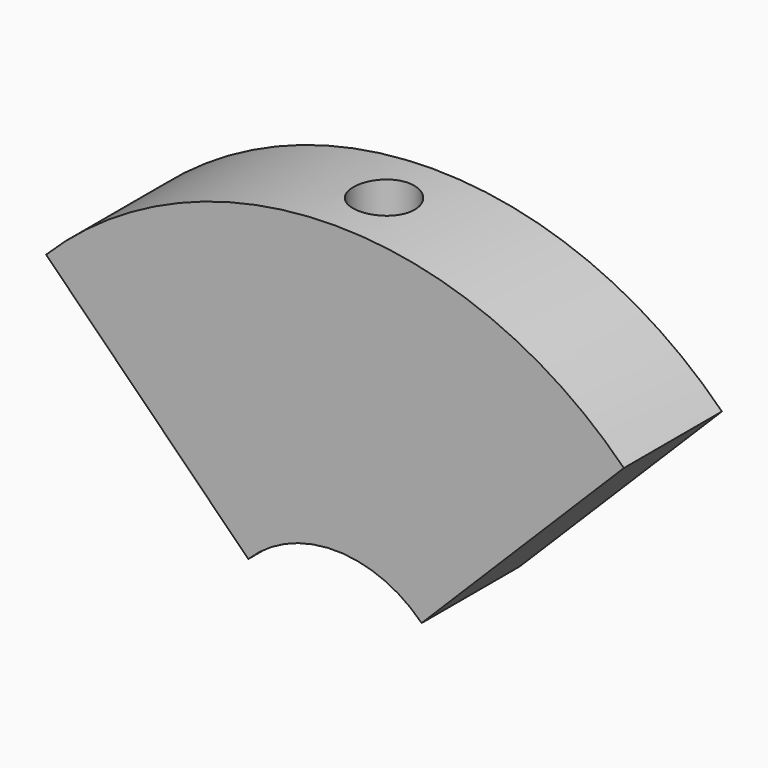
from build123d import *

# Parameters (mm, degrees)
F1_DEPTH = 15
F2_R     = 7.5
F3_DEPTH = 200.658232
F4_R     = 10
F5_DEPTH = 70


with BuildPart() as f1:
    # F0 (on Front) → F1 (new body, symmetric)
    with BuildSketch(Plane.XZ):
        with BuildLine():
            ThreePointArc((-21.213203, 21.213203), (0, 30), (21.213203, 21.213203))
            Line((21.213203, 21.213203), (70.710678, 70.710678))
            ThreePointArc((70.710678, 70.710678), (0, 100), (-70.710678, 70.710678))
            Line((-70.710678, 70.710678), (-21.213203, 21.213203))
        make_face()
    extrude(amount=F1_DEPTH, both=True)

    # F2 (on Top) → F3 (cut)
    with BuildSketch(Plane.XY):
        Circle(F2_R)
    extrude(amount=F3_DEPTH, mode=Mode.SUBTRACT)

    # F4 (on Top) → F5 (cut)
    with BuildSketch(Plane.XY):
        Circle(F4_R)
    extrude(amount=F5_DEPTH, mode=Mode.SUBTRACT)


solid = f1.part
